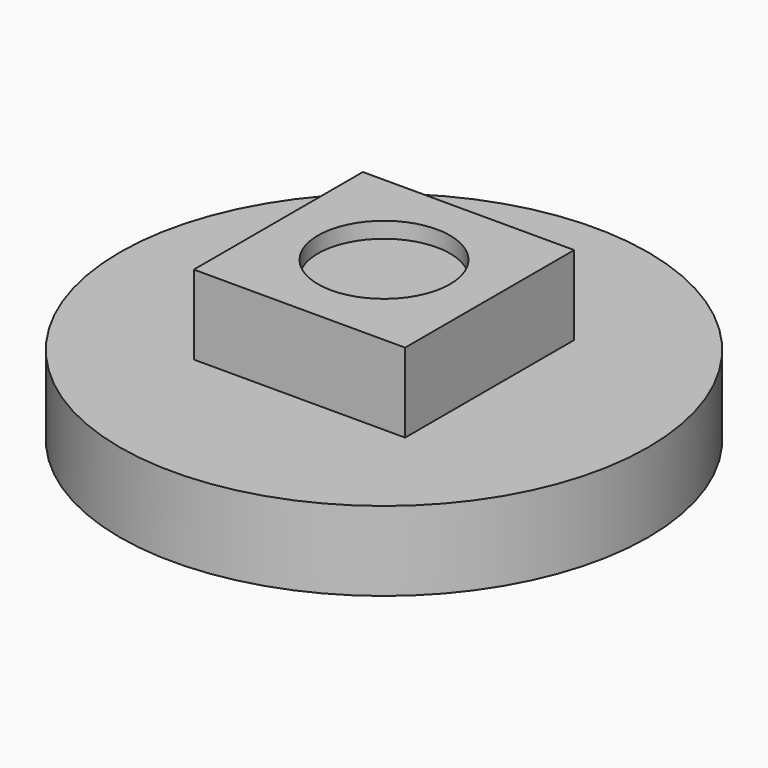
from build123d import *

# Parameters (mm, degrees)
F0_R     = 5
F0_W     = 4
F0_H     = 4
F0_R_2   = 1.25
F1_DEPTH = 1.5
F2_DEPTH = 1.5
F3_DEPTH = 1.2


with BuildPart() as f1:
    # F0 (on Top) → F1 (new body)
    with BuildSketch(Plane.XY):
        Circle(F0_R)
        Rectangle(F0_W, F0_H, mode=Mode.SUBTRACT)
        Rectangle(F0_W, F0_H)
        Circle(F0_R_2, mode=Mode.SUBTRACT)
        Circle(F0_R_2)
    extrude(amount=-F1_DEPTH)


with BuildPart() as f2:
    # F0 (on Top) → F2 (new body)
    with BuildSketch(Plane.XY):
        Rectangle(F0_W, F0_H)
        Circle(F0_R_2, mode=Mode.SUBTRACT)
    extrude(amount=F2_DEPTH)


with BuildPart() as f3:
    # F0 (on Top) → F3 (new body)
    with BuildSketch(Plane.XY):
        Circle(F0_R_2)
    extrude(amount=F3_DEPTH)


solid = Compound([f1.part, f2.part, f3.part])
